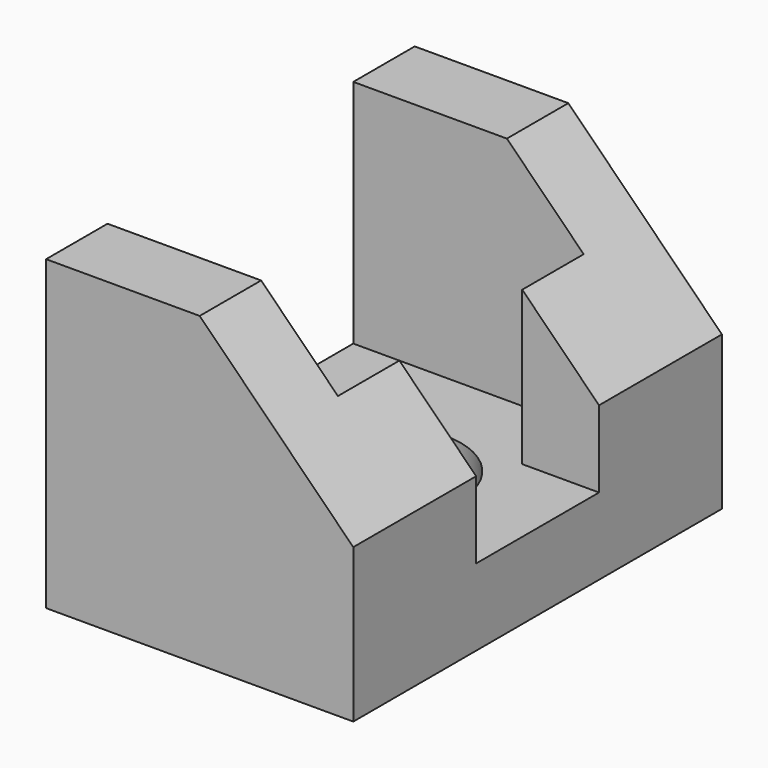
from build123d import *

# Parameters (mm, degrees)
F1_DEPTH = 30
F3_DEPTH = 30
F4_R     = 10
F5_DEPTH = 10


with BuildPart() as f1:
    # F0 (on Front) → F1 (new body, symmetric)
    with BuildSketch(Plane.XZ):
        Polygon((-20, 40), (-20, 0), (20, 0), (20, 20), (0, 40), align=None)
    extrude(amount=F1_DEPTH, both=True)

    # F2 (on face) → F3 (cut)
    with BuildSketch(Plane.XY.offset(40)):
        Polygon((10, 20), (-20, 20), (-20, -20), (10, -20), (10, -10), (20, -10), (20, 10), (10, 10), align=None)
    extrude(amount=-F3_DEPTH, mode=Mode.SUBTRACT)

    # F4 (on face) → F5 (cut)
    with BuildSketch(Plane.XY.offset(10)):
        Circle(F4_R)
    extrude(amount=-F5_DEPTH, mode=Mode.SUBTRACT)


solid = f1.part
